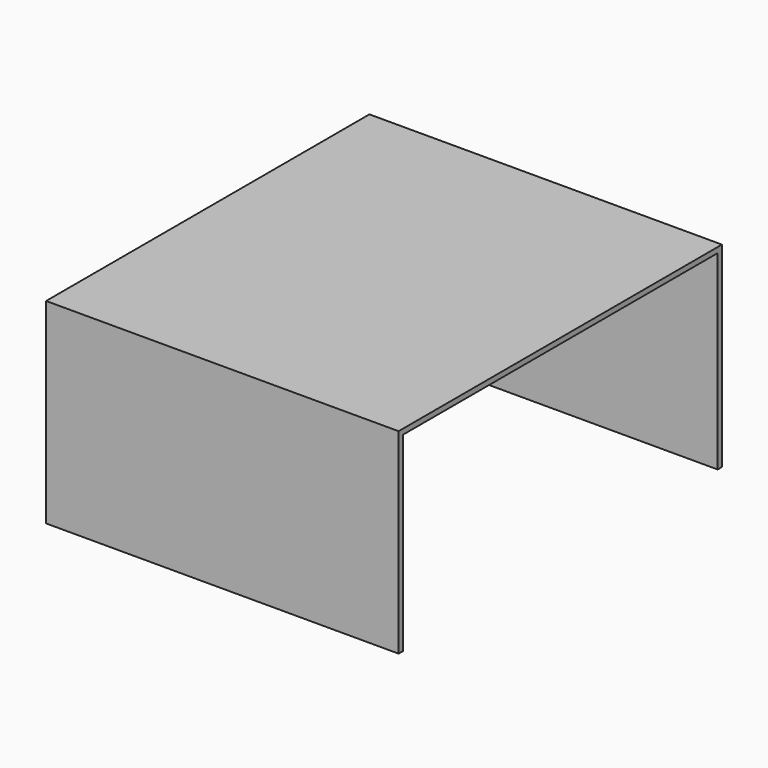
from build123d import *

# Parameters (mm, degrees)
F0_W     = 227
F0_H     = 110
F1_DEPTH = 3
F3_DEPTH = 195
F4_R     = 15
F5_DEPTH = 25


with BuildPart() as f1:
    # F0 (on Right) → F1 (new body)
    with BuildSketch(Plane.YZ):
        with Locations((-113.5, 55)):
            Rectangle(F0_W, F0_H)
    extrude(amount=F1_DEPTH)

    # F2 (on face) → F3 (join)
    with BuildSketch(Plane.YZ.offset(3)):
        Polygon((-3, 0), (0, 0), (0, 110), (-227, 110), (-227, 0), (-224, 0), (-224, 107), (-3, 107), align=None)
    extrude(amount=F3_DEPTH)

    # F4 (on face) → F5 (cut)
    with BuildSketch(Plane(origin=(0, 0, 0), x_dir=(0, -1, 0), z_dir=(-1, 0, 0))):
        with Locations((113.5, 31)):
            Circle(F4_R)
    extrude(amount=-F5_DEPTH, mode=Mode.SUBTRACT)


solid = f1.part
